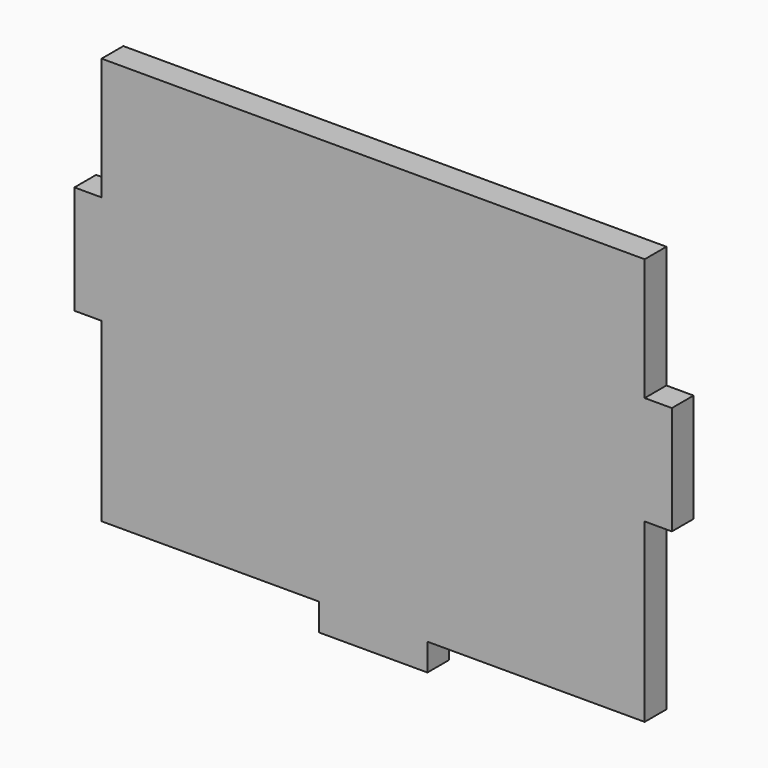
from build123d import *

# Parameters (mm, degrees)
F0_W     = 3.175
F0_H     = 12.7
F0_W_2   = 12.7
F0_H_2   = 3.175
F1_DEPTH = 3.175


with BuildPart() as f1:
    # F0 (on Front) → F1 (new body)
    with BuildSketch(Plane.XZ):
        Polygon((6.35, -23.8125), (31.75, -23.8125), (31.75, -3.175), (31.75, 9.525), (31.75, 23.8125), (-31.75, 23.8125), (-31.75, 9.525), (-31.75, -3.175), (-31.75, -23.8125), (-6.35, -23.8125), align=None)
        with Locations((-33.3375, 3.175)):
            Rectangle(F0_W, F0_H)
        with Locations((0, -25.4)):
            Rectangle(F0_W_2, F0_H_2)
        with Locations((33.3375, 3.175)):
            Rectangle(F0_W, F0_H)
    extrude(amount=F1_DEPTH)


solid = f1.part
